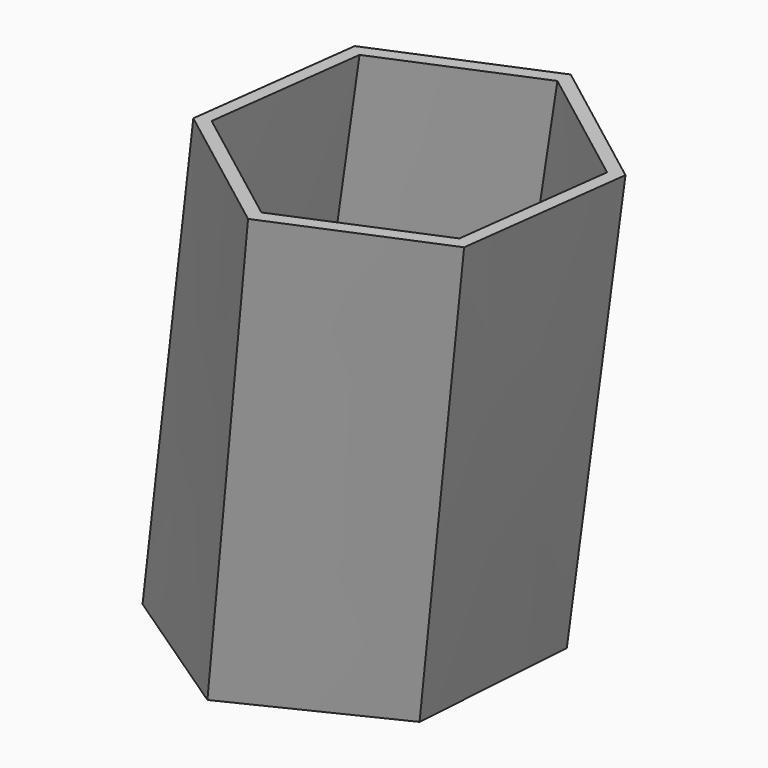
from build123d import *

# Parameters (mm, degrees)
F4_T = -2.5


with BuildPart() as f3:
    # F2 (on offset) → F3 section 0
    with BuildSketch(Plane.XY.offset(100)):
        Polygon((31.682645, 13.290587), (0, 0), (-4.331336, -34.083269), (23.019972, -54.875951), (54.702617, -41.585363), (59.033954, -7.502094), align=None)
    # F1 (on Top) → F3 section 1
    with BuildSketch(Plane.XY):
        Polygon((-27.569018, 18.579667), (-29.874973, -14.585637), (-2.305955, -33.165304), (27.569018, -18.579667), (29.874973, 14.585637), (2.305955, 33.165304), align=None)
    loft()

    # F4
    f4_openings = [f3.faces().sort_by_distance(p)[0] for p in [
        (27.351309, -20.792682, 100),
    ]]
    offset(amount=F4_T, openings=f4_openings)


solid = f3.part
